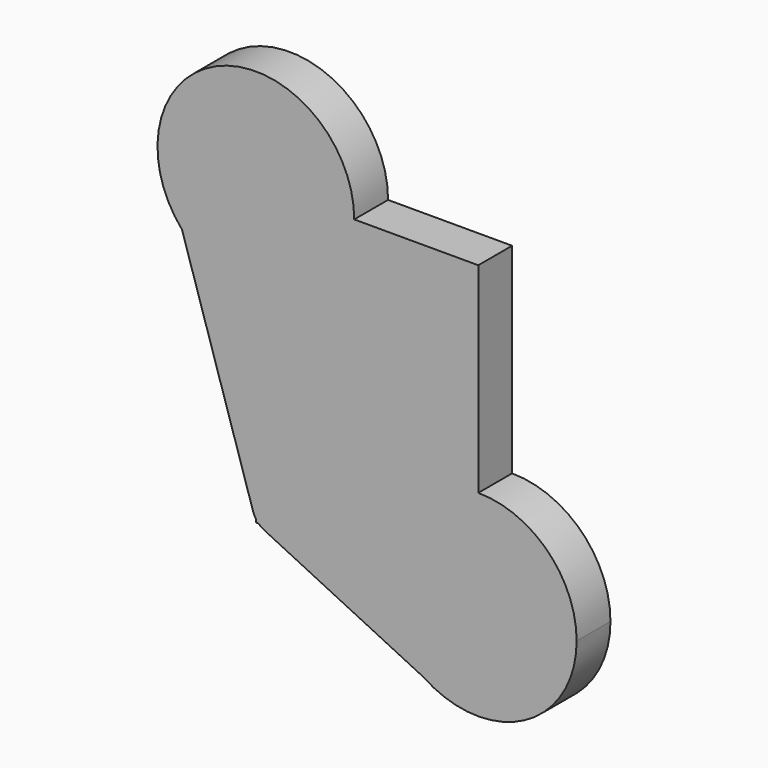
from build123d import *

# Parameters (mm, degrees)
F1_DEPTH = 12.7


with BuildPart() as f1:
    # F0 (on Front) → F1 (new body)
    with BuildSketch(Plane.XZ):
        with BuildLine():
            Line((-30.6719616055, 12.9689474719), (-30.6719616055, 42.5025746226))
            Line((-30.6719616055, 42.5025746226), (-1.1383344548, 42.5025746226))
            ThreePointArc((-1.1383344548, 42.5025746226), (-41.091738146, 70.1370348042), (-52.8531736535, 23.0031139951))
            ThreePointArc((-52.8531736535, 23.0031139951), (-42.8445811442, 15.5941657836), (-30.6719616055, 12.9689474719))
        make_face()
        with BuildLine():
            Line((-1.1383344548, 42.5025746226), (-30.6719616055, 42.5025746226))
            Line((-30.6719616055, 42.5025746226), (-30.6719616055, 12.9689474719))
            ThreePointArc((-30.6719616055, 12.9689474719), (-9.7885335742, 21.6191465913), (-1.1383344548, 42.5025746226))
        make_face()
        with BuildLine():
            Line((36.1052788794, 42.5025746226), (-1.1383344548, 42.5025746226))
            ThreePointArc((-1.1383344548, 42.5025746226), (-9.7885335742, 21.6191465913), (-30.6719616055, 12.9689474719))
            Line((-30.6719616055, 12.9689474719), (-30.6719616055, -46.2820419996))
            ThreePointArc((-30.6719616055, -46.2820419996), (-30.3101183632, -46.7587404599), (-29.9050042347, -47.1992566308))
            Line((-29.9050042347, -47.1992566308), (6.5738577877, -47.1992566308))
            ThreePointArc((6.5738577877, -47.1992566308), (15.2234107674, -26.3173885188), (36.1052788794, -17.6678355391))
            Line((36.1052788794, -17.6678355391), (36.1052788794, 42.5025746226))
        make_face()
        with BuildLine():
            Line((-30.6719616055, -46.2820419996), (-30.6719616055, 12.9689474719))
            ThreePointArc((-30.6719616055, 12.9689474719), (-42.8445811442, 15.5941657836), (-52.8531736535, 23.0031139951))
            Line((-52.8531736535, 23.0031139951), (-31.4936938255, -44.5985173325))
            ThreePointArc((-31.4936938255, -44.5985173325), (-31.1452529672, -45.4707495734), (-30.6719616055, -46.2820419996))
        make_face()
        with BuildLine():
            ThreePointArc((-29.9050042347, -47.1992566308), (-30.3101183632, -46.7587404599), (-30.6719616055, -46.2820419996))
            Line((-30.6719616055, -46.2820419996), (-30.6719616055, -47.1992566308))
            Line((-30.6719616055, -47.1992566308), (-29.9050042347, -47.1992566308))
        make_face()
        with BuildLine():
            ThreePointArc((65.6366999711, -47.1992566308), (56.9871469914, -26.3173885188), (36.1052788794, -17.6678355391))
            Line((36.1052788794, -17.6678355391), (36.1052788794, -47.1992566308))
            Line((36.1052788794, -47.1992566308), (6.5738577877, -47.1992566308))
            ThreePointArc((6.5738577877, -47.1992566308), (10.040761487, -61.0825474799), (19.6274635862, -71.7061216865))
            ThreePointArc((19.6274635862, -71.7061216865), (49.9885697285, -73.2637740232), (65.6366999711, -47.1992566308))
        make_face()
        with BuildLine():
            Line((36.1052788794, -47.1992566308), (36.1052788794, -17.6678355391))
            ThreePointArc((36.1052788794, -17.6678355391), (15.2234107674, -26.3173885188), (6.5738577877, -47.1992566308))
            Line((6.5738577877, -47.1992566308), (36.1052788794, -47.1992566308))
        make_face()
        with BuildLine():
            Line((6.5738577877, -47.1992566308), (-29.9050042347, -47.1992566308))
            ThreePointArc((-29.9050042347, -47.1992566308), (-29.1114169079, -47.865539345), (-28.2200330558, -48.3938842407))
            Line((-28.2200330558, -48.3938842407), (19.6274635862, -71.7061216865))
            ThreePointArc((19.6274635862, -71.7061216865), (10.040761487, -61.0825474799), (6.5738577877, -47.1992566308))
        make_face()
    extrude(amount=F1_DEPTH)


solid = f1.part
